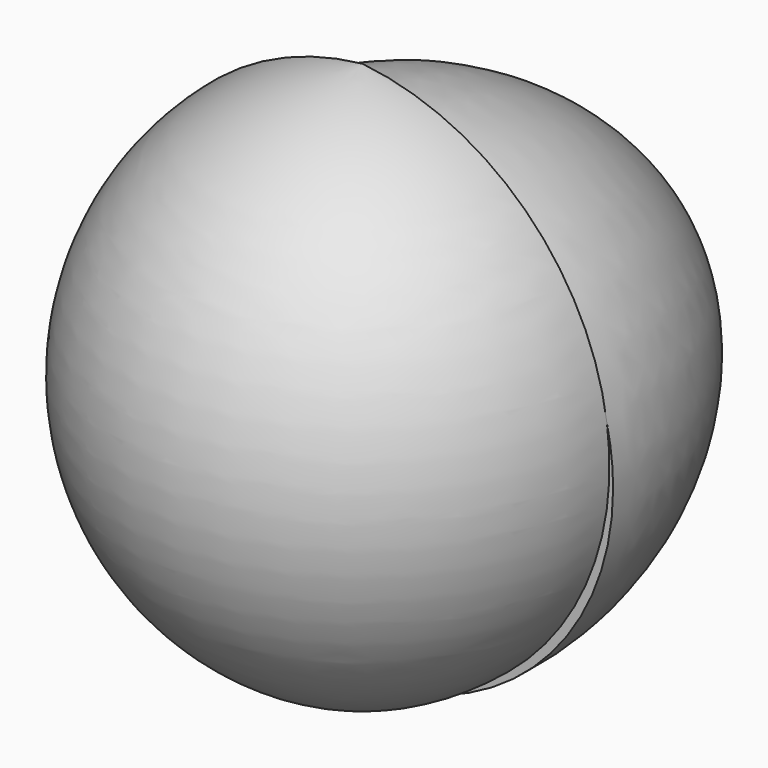
from build123d import *

# Parameters (mm, degrees)
F1_ANGLE = 180


with BuildPart() as f1:
    # F0 (on Front) → F1 (revolve)
    with BuildSketch(Plane.XZ):
        with BuildLine():
            ThreePointArc((0, -47.136329), (45.42681, 3.304759), (0, 53.745847))
            Line((0, 53.745847), (0, -47.136329))
        make_face()
    revolve(axis=Axis((0, 0, 3.304759), (0, 0, -1)), revolution_arc=F1_ANGLE)

    # F2 (on Top) → F3 (revolve)
    with BuildSketch(Plane.XY):
        with BuildLine():
            Line((0, 64.181939), (0, 0))
            Line((0, 0), (46.092719, 0))
            ThreePointArc((46.092719, 0), (34.038085, 39.984756), (0, 64.181939))
        make_face()
    revolve(axis=Axis((0, 32.090969, 0), (0, -1, 0)))


solid = f1.part
